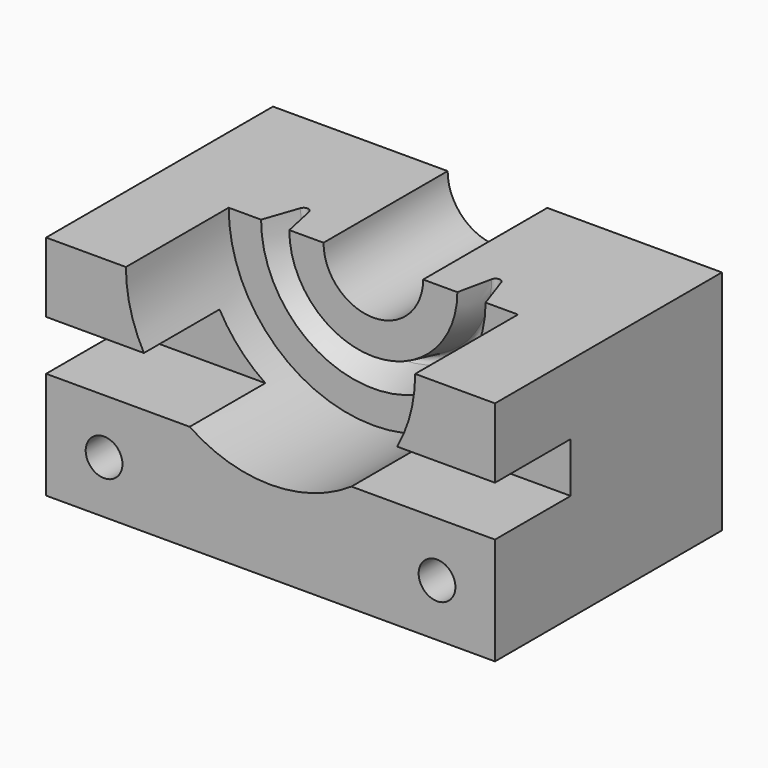
from build123d import *

# Parameters (mm, degrees)
F0_W     = 120.6107288599
F0_H     = 61.03855744
F1_DEPTH = 76.2
F3_ANGLE = 180
F4_W     = 120.6107288599
F4_H     = 13.4453041246
F5_DEPTH = 25.4
F6_R     = 1.27
F7_R     = 4.935476451
F8_DEPTH = 76.2


with BuildPart() as f1:
    # F0 (on Front) → F1 (new body)
    with BuildSketch(Plane.XZ):
        Rectangle(F0_W, F0_H)
    extrude(amount=F1_DEPTH)

    # F2 (on face) → F3 (revolve, cut)
    with BuildSketch(Plane.XY.offset(30.51927872)):
        Polygon((0, -76.2), (0, 0), (-13.3808227256, 0), (-13.3808227256, -41.6820123792), (-22.573298703, -41.6820123792), (-25.4785586149, -28.1363911927), (-30.1583929265, -41.6820123792), (-38.8593822718, -41.6820123792), (-38.8593822718, -76.2), align=None)
    revolve(axis=Axis((0, -30.7025797665, 30.51927872), (0, -1, 0)), revolution_arc=F3_ANGLE, mode=Mode.SUBTRACT)

    # F4 (on face) → F5 (cut)
    with BuildSketch(Plane.XZ.offset(76.2)):
        with Locations((0, 5.0255007227)):
            Rectangle(F4_W, F4_H)
    extrude(amount=-F5_DEPTH, mode=Mode.SUBTRACT)

    # F6
    f6_edges = [f1.edges().sort_by_distance(p)[0] for p in [
        (0, -28.136391, 5.04072),
    ]]
    fillet(f6_edges, radius=F6_R)

    # F7 (on face) → F8 (cut)
    with BuildSketch(Plane.XZ.offset(76.2)):
        with Locations((-44.7249487042, -16.4052583277)):
            Circle(F7_R)
        with Locations((44.7249487042, -16.4052583277)):
            Circle(F7_R)
    extrude(amount=-F8_DEPTH, mode=Mode.SUBTRACT)


solid = f1.part
